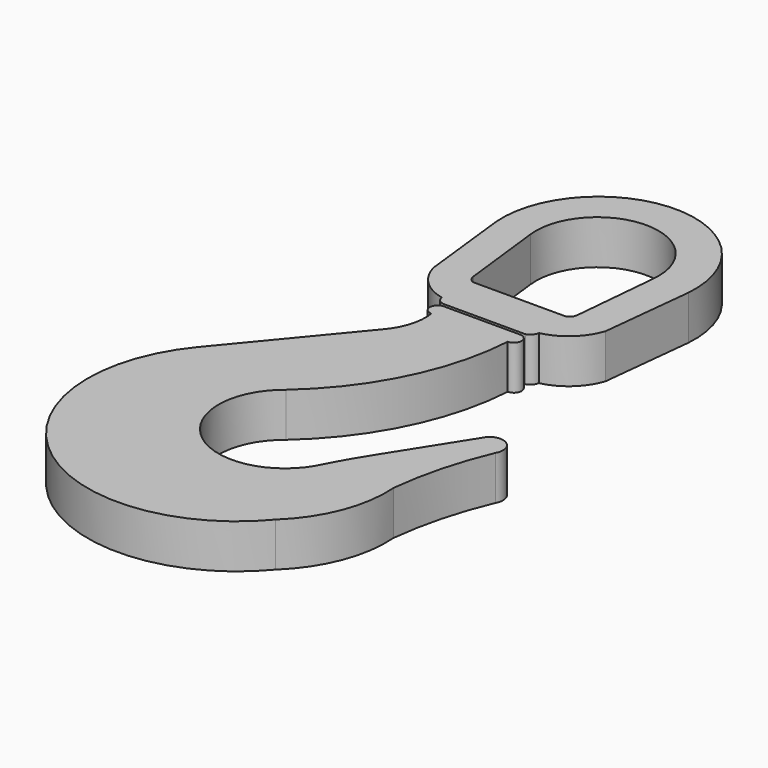
from build123d import *

# Parameters (mm, degrees)
F2_DEPTH = 3.96875
F3_DEPTH = 3.96748


with BuildPart() as f2:
    # F1 (on Top) → F2 (new body)
    with BuildSketch(Plane.XY):
        with BuildLine():
            Line((-8.953433, 10.552669), (-8.016286, 2.31638))
            ThreePointArc((-8.016286, 2.31638), (-6.823146, 0.252739), (-4.726763, -0.881884))
            ThreePointArc((-4.726763, -0.881884), (-4.456024, -1.37303), (-3.930299, -1.568319))
            Line((-3.930299, -1.568319), (3.353022, -1.568319))
            ThreePointArc((3.353022, -1.568319), (3.776418, -1.293796), (3.995504, -0.839233))
            ThreePointArc((3.995504, -0.839233), (6.152268, 0.278424), (7.474208, 2.31638))
            Line((7.474208, 2.31638), (8.356228, 10.552669))
            ThreePointArc((8.356228, 10.552669), (-0.298603, 19.898144), (-8.953433, 10.552669))
        make_face()
        with BuildLine():
            Line((3.932814, 2.31638), (-4.493765, 2.31638))
            ThreePointArc((-4.493765, 2.31638), (-4.828092, 2.596009), (-4.98519, 3.002564))
            Line((-4.98519, 3.002564), (-5.864813, 10.552669))
            ThreePointArc((-5.864813, 10.552669), (-0.38549, 16.707421), (5.093833, 10.552669))
            Line((5.093833, 10.552669), (4.397464, 3.002564))
            ThreePointArc((4.397464, 3.002564), (4.253339, 2.599747), (3.932814, 2.31638))
        make_face(mode=Mode.SUBTRACT)
    extrude(amount=F2_DEPTH)


with BuildPart() as f3:
    # F0 (on Top) → F3 (new body)
    with BuildSketch(Plane.XY):
        with BuildLine():
            ThreePointArc((-4.500224, -18.68256), (0.832613, -11.714558), (3.098149, -3.237558))
            Line((3.098149, -3.237558), (-3.76776, -3.237558))
            ThreePointArc((-3.76776, -3.237558), (-3.888875, -5.295022), (-4.841106, -7.122885))
            Line((-4.841106, -7.122885), (-13.398113, -17.469591))
            ThreePointArc((-13.398113, -17.469591), (-11.61046, -36.351689), (7.271638, -34.564036))
            ThreePointArc((7.271638, -34.564036), (10.013355, -30.476956), (10.731844, -25.608178))
            ThreePointArc((10.731844, -25.608178), (11.549974, -21.220692), (12.996, -16.998326))
            ThreePointArc((12.996, -16.998326), (12.702198, -15.373071), (11.051193, -15.417315))
            Line((11.051193, -15.417315), (6.41499, -22.753078))
            ThreePointArc((6.41499, -22.753078), (5.331994, -24.567855), (4.343215, -26.435638))
            ThreePointArc((4.343215, -26.435638), (-4.759498, -27.898408), (-4.500224, -18.68256))
        make_face()
        with BuildLine():
            ThreePointArc((3.098149, -3.237558), (3.794342, -2.541364), (3.098149, -1.845171))
            Line((3.098149, -1.845171), (2.13285, -1.845171))
            Line((2.13285, -1.845171), (-2.759502, -1.845171))
            Line((-2.759502, -1.845171), (-3.76776, -1.845171))
            ThreePointArc((-3.76776, -1.845171), (-4.463954, -2.541364), (-3.76776, -3.237558))
            Line((-3.76776, -3.237558), (3.098149, -3.237558))
        make_face()
    extrude(amount=F3_DEPTH)


solid = Compound([f2.part, f3.part])
